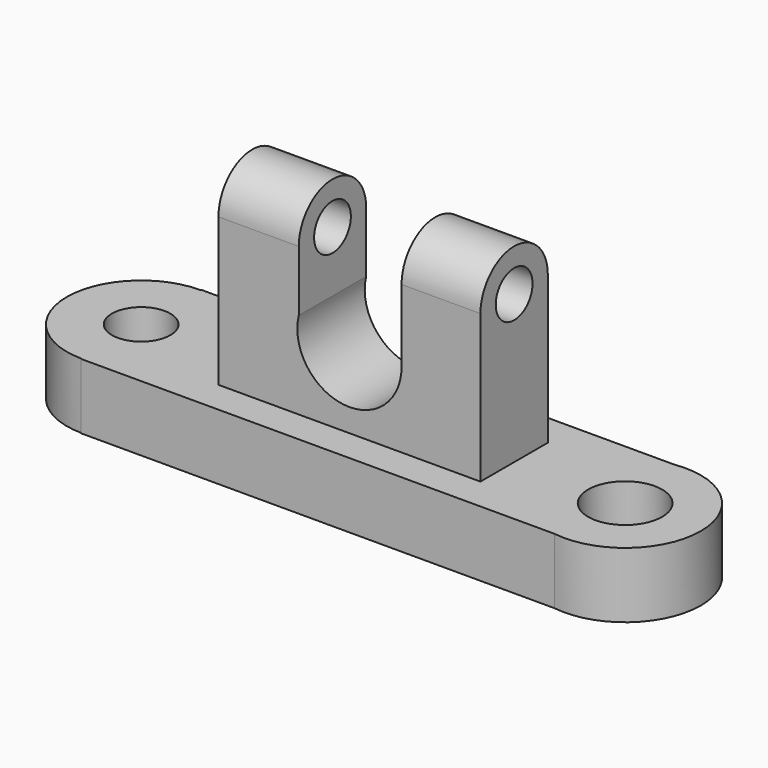
from build123d import *

# Parameters (mm, degrees)
F1_DEPTH = 12.7
F2_R     = 7.177953
F2_R_2   = 5.665959
F3_DEPTH = 25.4
F5_DEPTH = 25.4
F6_R     = 4.457647
F7_DEPTH = 63.5
F9_DEPTH = 38.1


with BuildPart() as f1:
    # F0 (on Top) → F1 (new body)
    with BuildSketch(Plane.XY):
        with BuildLine():
            ThreePointArc((44.840731, -14.530204), (61.605395, 0), (44.840731, 14.530204))
            Line((44.840731, 14.530204), (-46.926282, 14.530204))
            Line((-46.926282, 14.530204), (-46.926282, 14.414141))
            ThreePointArc((-46.926282, 14.414141), (-61.340423, 0), (-46.926282, -14.414141))
            Line((-46.926282, -14.414141), (-46.926282, -14.530204))
            Line((-46.926282, -14.530204), (44.840731, -14.530204))
        make_face()
    extrude(amount=F1_DEPTH)

    # F2 (on face) → F3 (cut)
    with BuildSketch(Plane.XY.offset(12.7)):
        with Locations((46.926282, 0)):
            Circle(F2_R)
        with Locations((-46.926282, 0)):
            Circle(F2_R_2)
    extrude(amount=-F3_DEPTH, mode=Mode.SUBTRACT)

    # F4 (on Right) → F5 (join, symmetric)
    with BuildSketch(Plane.YZ):
        with BuildLine():
            Line((-8.16711, 12.592246), (8.16711, 12.592246))
            Line((8.16711, 12.592246), (8.16711, 41.384771))
            ThreePointArc((8.16711, 41.384771), (0, 49.551881), (-8.16711, 41.384771))
            Line((-8.16711, 41.384771), (-8.16711, 12.592246))
        make_face()
    extrude(amount=F5_DEPTH, both=True)

    # F6 (on face) → F7 (cut, symmetric)
    with BuildSketch(Plane.YZ.offset(25.4)):
        with Locations((0, 41.384771)):
            Circle(F6_R)
    extrude(amount=F7_DEPTH, both=True, mode=Mode.SUBTRACT)

    # F8 (on Front) → F9 (cut, symmetric)
    with BuildSketch(Plane.XZ):
        with BuildLine():
            Line((10.105069, 50.244011), (-9.828218, 50.244011))
            Line((-9.828218, 50.244011), (-9.828218, 29.614518))
            ThreePointArc((-9.828218, 29.614518), (-1.182707, 17.229743), (10.105069, 27.265361))
            Line((10.105069, 27.265361), (10.105069, 50.244011))
        make_face()
    extrude(amount=F9_DEPTH, both=True, mode=Mode.SUBTRACT)


solid = f1.part
